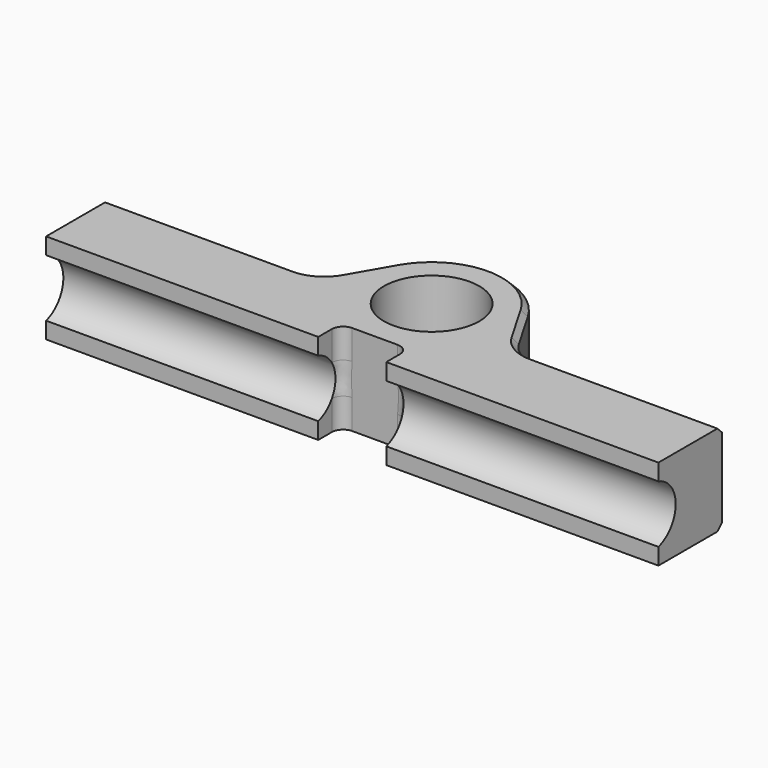
from build123d import *

# Parameters (mm, degrees)
SKETCH_R        = 4.2
PAD_DEPTH       = 8
SKETCH002_W     = 6
SKETCH002_H     = 2.5
POCKET001_DEPTH = 8.001
SKETCH003_R     = 2.65
POCKET_DEPTH    = 57.001
FILLET_R        = 3
CHAMFER_SIZE    = 0.5
FILLET001_R     = 1


with BuildPart() as part:
    # Sketch → Pad (new body)
    with BuildSketch(Plane.XY):
        with BuildLine():
            Line((-8.746857, 7), (-27, 7))
            Line((-27, 7), (-27, 0))
            Line((-27, 0), (27, 0))
            Line((27, 0), (27, 7))
            Line((8.746857, 7), (27, 7))
            Line((5.80237, 12.1), (8.746857, 7))
            ThreePointArc((5.80237, 12.1), (0, 15.45), (-5.80237, 12.1))
            Line((-8.746857, 7), (-5.80237, 12.1))
        make_face()
        with Locations((0, 8.75)):
            Circle(SKETCH_R, mode=Mode.SUBTRACT)
    extrude(amount=PAD_DEPTH)

    # Sketch002 → Pocket001 (cut, through all)
    with BuildSketch(Plane(origin=(0, 0, 0), x_dir=(1, 0, 0), z_dir=(0, 0, -1))):
        with Locations((0, -1.25)):
            Rectangle(SKETCH002_W, SKETCH002_H)
    extrude(amount=-POCKET001_DEPTH, mode=Mode.SUBTRACT)

    # Sketch003 → Pocket (cut, through all)
    with BuildSketch(Plane(origin=(-30, 0, 0), x_dir=(0, -1, 0), z_dir=(-1, 0, 0))):
        with Locations((0.75, 4)):
            Circle(SKETCH003_R)
    extrude(amount=-POCKET_DEPTH, mode=Mode.SUBTRACT)

    # Fillet
    fillet_edges = [part.edges().sort_by_distance(p)[0] for p in [
        (-8.746857, 7, 4),
        (8.746857, 7, 4),
    ]]
    fillet(fillet_edges, radius=FILLET_R)

    # Chamfer
    chamfer_edges = [part.edges().sort_by_distance(p)[0] for p in [
        (-18.739454, 7, 8),
        (-18.739454, 7, 0),
    ]]
    chamfer(chamfer_edges, length=CHAMFER_SIZE)

    # Fillet001
    fillet001_edges = [part.edges().sort_by_distance(p)[0] for p in [
        (-3, 2.5, 4),
        (3, 2.5, 4),
    ]]
    fillet(fillet001_edges, radius=FILLET001_R)


solid = part.part
